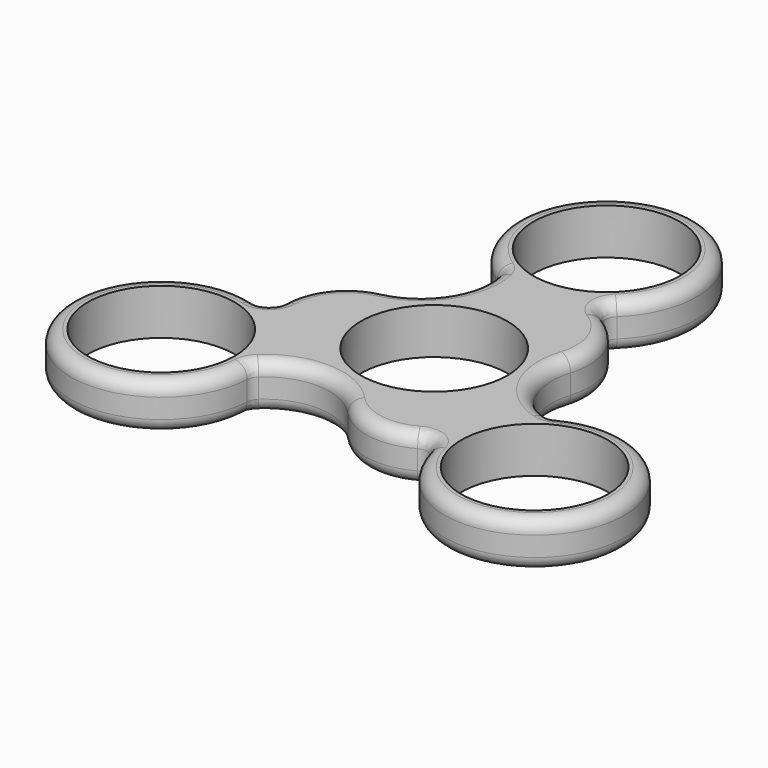
from build123d import *

# Parameters (mm, degrees)
F0_R     = 11.2
F1_DEPTH = 7
F2_R     = 2
F3_R     = 2


with BuildPart() as f1:
    # F0 (on Top) → F1 (new body)
    with BuildSketch(Plane.XY):
        with BuildLine():
            ThreePointArc((14.256481, 8.230983), (13.383452, 16.25034), (6.875, 21.016084))
            ThreePointArc((6.875, 21.016084), (0, 46.673933), (-6.875, 21.016084))
            ThreePointArc((-6.875, 21.016084), (-7.748029, 12.996727), (-14.256481, 8.230983))
            ThreePointArc((-14.256481, 8.230983), (-20.764934, 3.46524), (-21.637962, -4.554117))
            ThreePointArc((-21.637962, -4.554117), (-40.420812, -23.336967), (-14.762962, -16.461967))
            ThreePointArc((-14.762962, -16.461967), (-7.381481, -13.208353), (0, -16.461967))
            ThreePointArc((0, -16.461967), (7.381481, -19.71558), (14.762962, -16.461967))
            ThreePointArc((14.762962, -16.461967), (40.420812, -23.336967), (21.637962, -4.554117))
            ThreePointArc((21.637962, -4.554117), (15.12951, 0.211626), (14.256481, 8.230983))
        make_face()
        with Locations((-28.512962, -16.461967)):
            Circle(F0_R, mode=Mode.SUBTRACT)
        with Locations((28.512962, -16.461967)):
            Circle(F0_R, mode=Mode.SUBTRACT)
        Circle(F0_R, mode=Mode.SUBTRACT)
        with Locations((0, 32.923933)):
            Circle(F0_R, mode=Mode.SUBTRACT)
    extrude(amount=F1_DEPTH)

    # F2
    f2_edges = [f1.edges().sort_by_distance(p)[0] for p in [
        (-14.762962, -16.461967, 3.5),
        (14.762962, -16.461967, 3.5),
        (-6.875, 21.016084, 3.5),
        (-21.637962, -4.554117, 3.5),
        (6.875, 21.016084, 3.5),
        (21.637962, -4.554117, 3.5),
    ]]
    fillet(f2_edges, radius=F2_R)

    # F3
    f3_edges = [f1.edges().sort_by_distance(p)[0] for p in [
        (-7.978021, 12.618003, 0),
        (5.774512, -19.585618, 7),
    ]]
    fillet(f3_edges, radius=F3_R)


solid = f1.part
